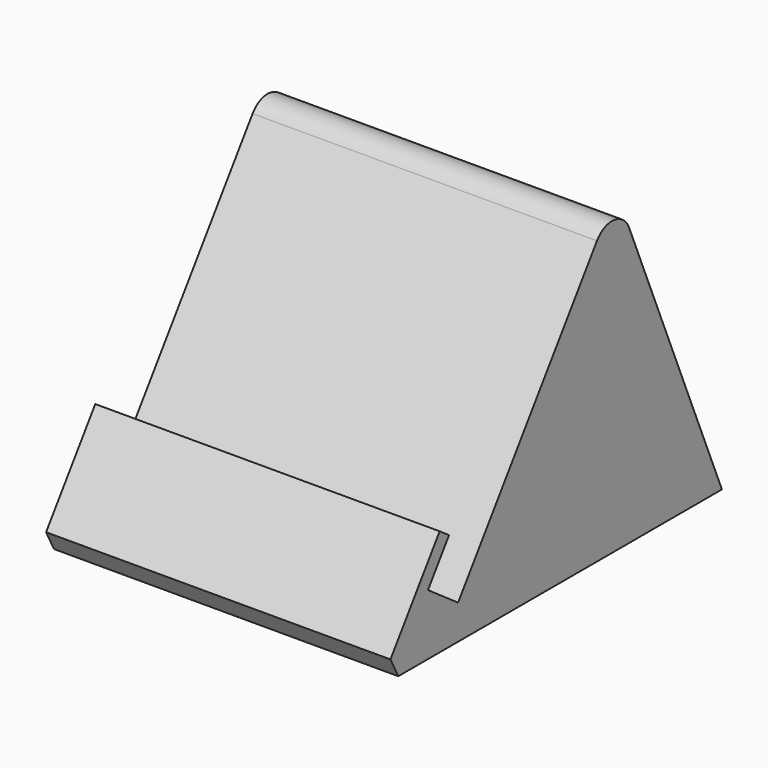
from build123d import *

# Parameters (mm, degrees)
F1_DEPTH = 38.1
F2_R     = 5.08
F3_SIZE  = 5.08


with BuildPart() as f1:
    # F0 (on Right) → F1 (new body, symmetric)
    with BuildSketch(Plane.YZ):
        Polygon((43.706524, 62.419386), (0, 0), (-8.322585, 5.827537), (-2.495048, 14.150121), (-5.095856, 15.971227), (-21.614611, -7.62), (72.976895, -7.62), align=None)
    extrude(amount=F1_DEPTH, both=True)

    # F2
    f2_edges = [f1.edges().sort_by_distance(p)[0] for p in [
        (0, 43.706524, 62.419386),
    ]]
    fillet(f2_edges, radius=F2_R)

    # F3
    f3_edges = [f1.edges().sort_by_distance(p)[0] for p in [
        (0, -21.614611, -7.62),
    ]]
    chamfer(f3_edges, length=F3_SIZE)


solid = f1.part
